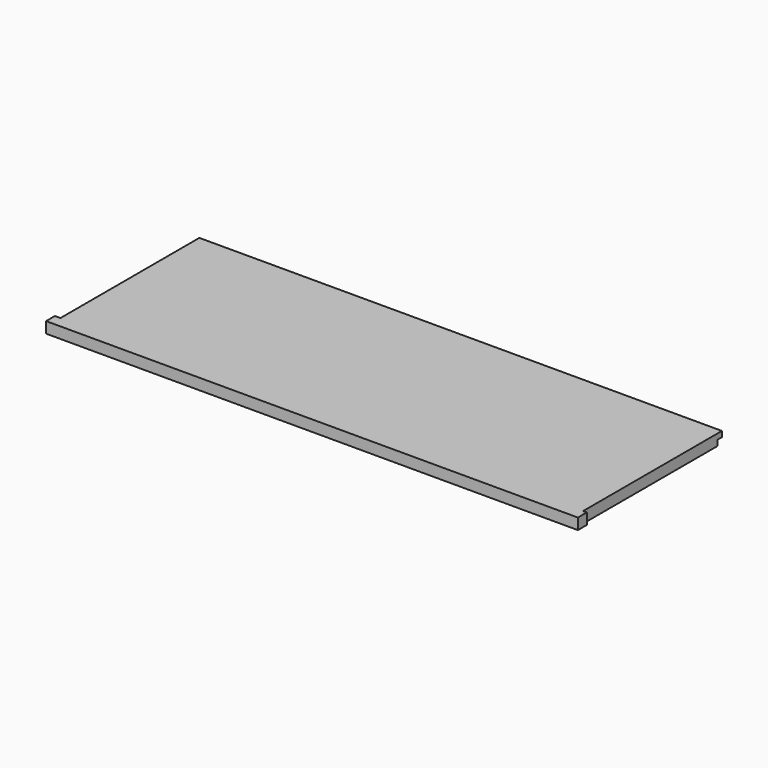
from build123d import *

# Parameters (mm, degrees)
F0_W     = 898.525
F0_H     = 317.5
F1_DEPTH = 19.05
F2_W     = 9.525
F2_H     = 9.525
F3_DEPTH = 898.526
F4_W     = 19.05
F4_H     = 19.05
F5_DEPTH = 9.525
F6_W     = 19.05
F6_H     = 19.05
F7_DEPTH = 6.35


with BuildPart() as f1:
    # F0 (on Top) → F1 (new body)
    with BuildSketch(Plane.XY):
        Rectangle(F0_W, F0_H)
    extrude(amount=F1_DEPTH)

    # F2 (on face) → F3 (cut, through all)
    with BuildSketch(Plane.YZ.offset(449.2625)):
        with Locations((153.9875, 4.7625)):
            Rectangle(F2_W, F2_H)
    extrude(amount=-F3_DEPTH, mode=Mode.SUBTRACT)

    # F4 (on face) → F5 (join)
    with BuildSketch(Plane(origin=(-449.2625, 0, 0), x_dir=(0, -1, 0), z_dir=(-1, 0, 0))):
        with Locations((149.225, 9.525)):
            Rectangle(F4_W, F4_H)
    extrude(amount=F5_DEPTH)

    # F6 (on face) → F7 (join)
    with BuildSketch(Plane.YZ.offset(449.2625)):
        with Locations((-149.225, 9.525)):
            Rectangle(F6_W, F6_H)
    extrude(amount=F7_DEPTH)


solid = f1.part
